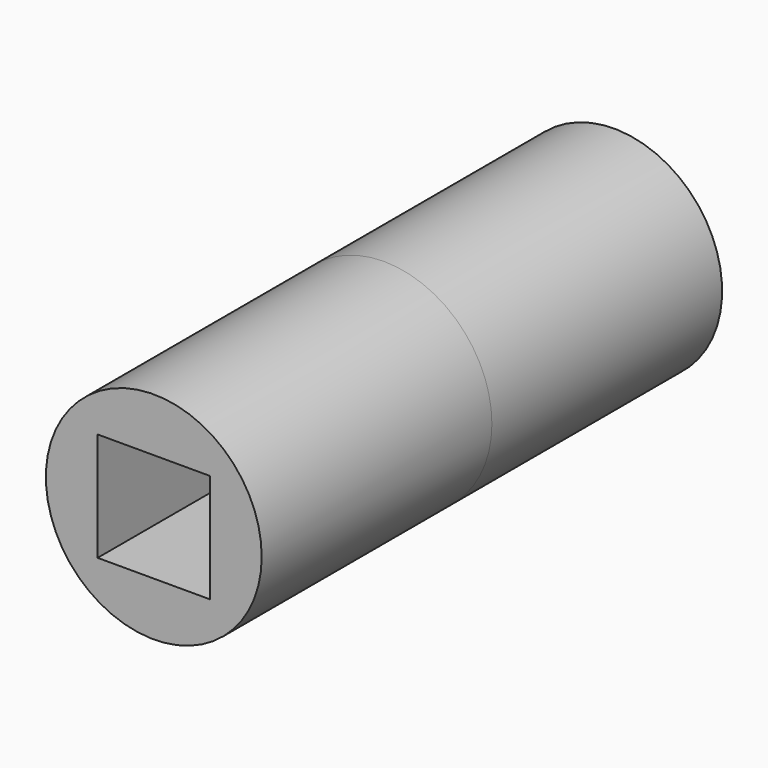
from build123d import *

# Parameters (mm, degrees)
F0_R     = 9.525
F1_DEPTH = 25.4
F3_DEPTH = 25.401
F4_R     = 9.525
F5_DEPTH = 25.4
F6_W     = 9.9143758416
F6_H     = 9.589554742
F7_DEPTH = 50.801


with BuildPart() as f1:
    # F0 (on Front) → F1 (new body)
    with BuildSketch(Plane.XZ):
        Circle(F0_R)
    extrude(amount=F1_DEPTH)

    # F2 (on Front) → F3 (cut, through all)
    with BuildSketch(Plane.XZ):
        with BuildLine():
            ThreePointArc((-4.7625, 0), (-3.3675960454, -3.3675960454), (0, -4.7625))
            ThreePointArc((0, -4.7625), (3.3675960454, -3.3675960454), (4.7625, 0))
            ThreePointArc((4.7625, 0), (3.3675960454, 3.3675960454), (0, 4.7625))
            ThreePointArc((0, 4.7625), (-3.3675960454, 3.3675960454), (-4.7625, 0))
        make_face()
    extrude(amount=F3_DEPTH, mode=Mode.SUBTRACT)

    # F4 (on face) → F5 (join)
    with BuildSketch(Plane(origin=(0, 0, 0), x_dir=(-1, 0, 0), z_dir=(0, 1, 0))):
        Circle(F4_R)
        Polygon((-5.9788160654, 3.6644153505), (0.1840687509, 7.0100142725), (6.1628848163, 3.3455989219), (5.9788160654, -3.6644153505), (-0.1840687509, -7.0100142725), (-6.1628848163, -3.3455989219), align=None, mode=Mode.SUBTRACT)
    extrude(amount=F5_DEPTH)

    # F6 (on face) → F7 (cut, through all)
    with BuildSketch(Plane.XZ.offset(25.4)):
        Rectangle(F6_W, F6_H)
    extrude(amount=-F7_DEPTH, mode=Mode.SUBTRACT)


solid = f1.part
